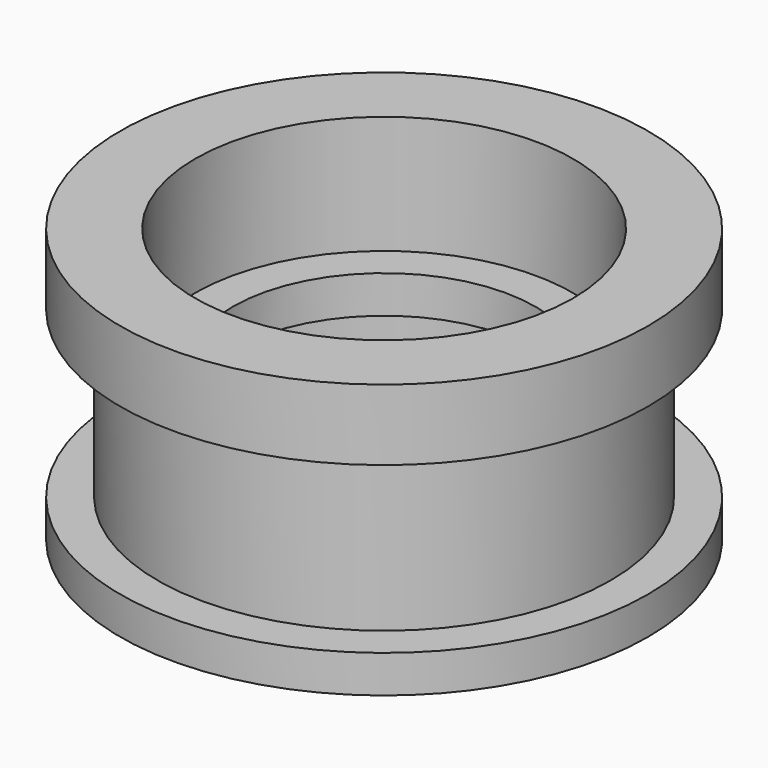
from build123d import *

# Parameters (mm, degrees)
F0_R     = 11.1749967
F0_R_2   = 8
F1_DEPTH = 1.5875
F2_R     = 9.5874967
F2_R_2   = 8
F3_DEPTH = 3.41249
F4_R     = 9.5874967
F4_R_2   = 6.4124967
F5_DEPTH = 1.5875
F6_R     = 9.5874967
F6_R_2   = 8
F7_DEPTH = 2.0000214
F8_R     = 11.1749967
F8_R_2   = 8
F9_DEPTH = 2.9999686


with BuildPart() as f1:
    # F0 (on Top) → F1 (new body)
    with BuildSketch(Plane.XY):
        Circle(F0_R)
        Circle(F0_R_2, mode=Mode.SUBTRACT)
    extrude(amount=F1_DEPTH)

    # F2 (on face) → F3 (join)
    with BuildSketch(Plane.XY.offset(1.5875)):
        Circle(F2_R)
        Circle(F2_R_2, mode=Mode.SUBTRACT)
    extrude(amount=F3_DEPTH)

    # F4 (on face) → F5 (join)
    with BuildSketch(Plane.XY.offset(4.99999)):
        Circle(F4_R)
        Circle(F4_R_2, mode=Mode.SUBTRACT)
    extrude(amount=F5_DEPTH)

    # F6 (on face) → F7 (join)
    with BuildSketch(Plane.XY.offset(6.58749)):
        Circle(F6_R)
        Circle(F6_R_2, mode=Mode.SUBTRACT)
    extrude(amount=F7_DEPTH)

    # F8 (on face) → F9 (join)
    with BuildSketch(Plane.XY.offset(8.5875114)):
        Circle(F8_R)
        Circle(F8_R_2, mode=Mode.SUBTRACT)
    extrude(amount=F9_DEPTH)


solid = f1.part
